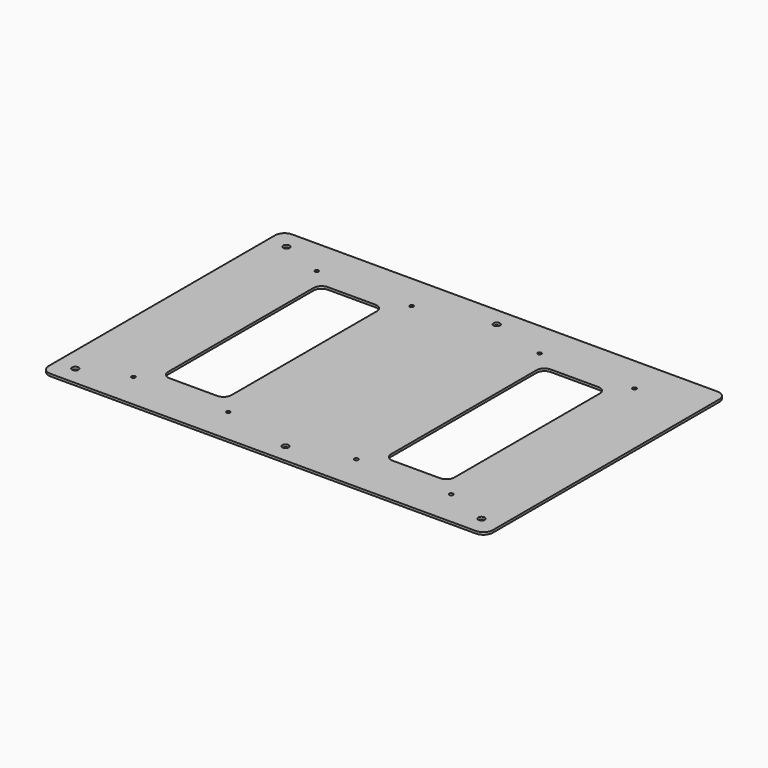
from build123d import *

# Parameters (mm, degrees)
F1_DEPTH = 1.5
F2_D     = 4.1
F3_R     = 6
F4_D     = 2.4


with BuildPart() as f1:
    # F0 (on Top) → F1 (new body)
    with BuildSketch(Plane.XY):
        Polygon((155, 99.2472513323), (-126, 99.2472513323), (-126, -91.7527486677), (-1.5, -91.7527486677), (30.5, -91.7527486677), (155, -91.7527486677), align=None)
        with BuildLine():
            ThreePointArc((-76, 61.2472513323), (-74.5355339059, 64.7827852383), (-71, 66.2472513323))
            Line((-71, 66.2472513323), (-41, 66.2472513323))
            ThreePointArc((-41, 66.2472513323), (-37.4644660941, 64.7827852383), (-36, 61.2472513323))
            Line((-36, 61.2472513323), (-36, -53.7527486677))
            ThreePointArc((-36, -53.7527486677), (-37.4644660941, -57.2882825736), (-41, -58.7527486677))
            Line((-41, -58.7527486677), (-71, -58.7527486677))
            ThreePointArc((-71, -58.7527486677), (-74.5355339059, -57.2882825736), (-76, -53.7527486677))
            Line((-76, -53.7527486677), (-76, 61.2472513323))
        make_face(mode=Mode.SUBTRACT)
        with BuildLine():
            Line((105, 61.2472513323), (105, -53.7527486677))
            ThreePointArc((105, -53.7527486677), (103.5355339059, -57.2882825736), (100, -58.7527486677))
            Line((100, -58.7527486677), (70, -58.7527486677))
            ThreePointArc((70, -58.7527486677), (66.4644660941, -57.2882825736), (65, -53.7527486677))
            Line((65, -53.7527486677), (65, 61.2472513323))
            ThreePointArc((65, 61.2472513323), (66.4644660941, 64.7827852383), (70, 66.2472513323))
            Line((70, 66.2472513323), (100, 66.2472513323))
            ThreePointArc((100, 66.2472513323), (103.5355339059, 64.7827852383), (105, 61.2472513323))
        make_face(mode=Mode.SUBTRACT)
    extrude(amount=F1_DEPTH)

    # F2 (through all)
    with Locations(Plane(origin=(0, 0, 0), x_dir=(1, 0, 0), z_dir=(0, 0, -1))):
        with Locations((-114, -87.2472513323), (19, -87.2472513323), (143, 79.7527486677), (-114, 79.7527486677), (19, 79.7527486677)):
            Hole(F2_D / 2)

    # F3
    f3_edges = [f1.edges().sort_by_distance(p)[0] for p in [
        (-126, 99.247251, 0.75),
        (-126, -91.752749, 0.75),
        (155, -91.752749, 0.75),
        (155, 99.247251, 0.75),
    ]]
    fillet(f3_edges, radius=F3_R)

    # F4 (through all)
    with Locations(Plane(origin=(0, 0, 0), x_dir=(1, 0, 0), z_dir=(0, 0, -1))):
        with Locations((-26, -76.2472513323), (-86, -76.2472513323), (-26, 68.7527486677), (-86, 68.7527486677), (55, -76.2472513323), (115, -76.2472513323), (115, 68.7527486677), (55, 68.7527486677)):
            Hole(F4_D / 2)


with BuildPart() as f1_1:
    # F5: moved
    add(f1.part.moved(Location((0, 0, 65))))


with BuildPart() as f1_2:
    # F6: moved
    add(f1_1.part.moved(Location((-2, -2, 0))))


solid = f1_2.part
